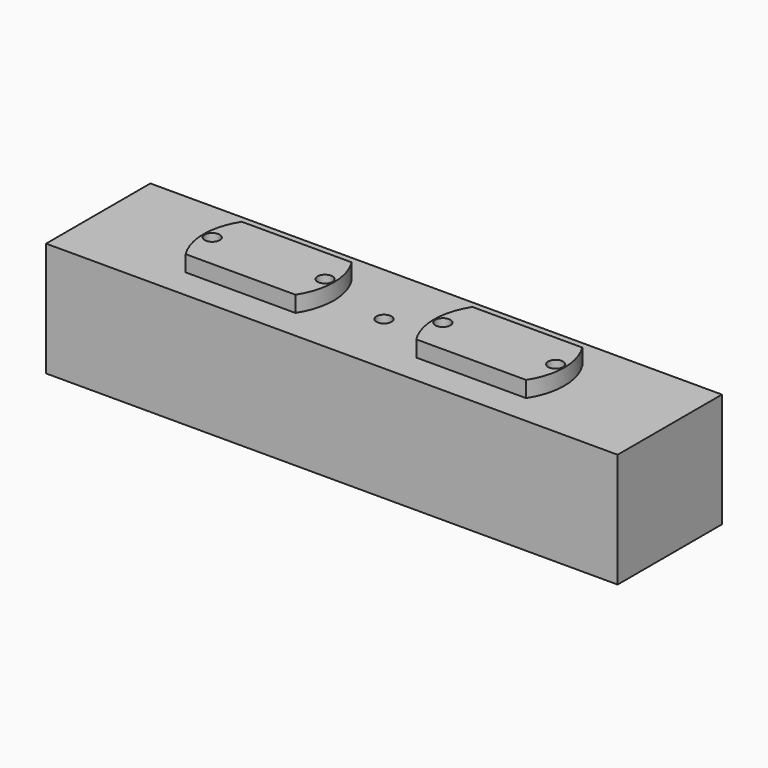
from build123d import *

# Parameters (mm, degrees)
F0_W     = 57
F0_H     = 13
F1_DEPTH = 13
F2_W     = 57
F2_H     = 13
F2_R     = 0.75
F3_DEPTH = 1.6
F4_ANGLE = -180
F5_ANGLE = -180
F6_R     = 0.75
F7_DEPTH = 5


with BuildPart() as f1:
    # F0 (on Top) → F1 (new body)
    with BuildSketch(Plane.XY):
        Rectangle(F0_W, F0_H)
    extrude(amount=F1_DEPTH)

    # F2 (on face) → F3 (cut)
    with BuildSketch(Plane.XY.offset(13)):
        Rectangle(F2_W, F2_H)
        with BuildLine():
            ThreePointArc((-6.027774, 3.5), (-5.005, 0), (-6.027774, -3.5))
            Line((-6.027774, -3.5), (-16.982226, -3.5))
            ThreePointArc((-16.982226, -3.5), (-18.005, 0), (-16.982226, 3.5))
            Line((-16.982226, 3.5), (-6.027774, 3.5))
        make_face(mode=Mode.SUBTRACT)
        with BuildLine():
            ThreePointArc((6.017774, -3.5), (4.995, 0), (6.017774, 3.5))
            Line((6.017774, 3.5), (16.972226, 3.5))
            ThreePointArc((16.972226, 3.5), (17.995, 0), (16.972226, -3.5))
            Line((16.972226, -3.5), (6.017774, -3.5))
        make_face(mode=Mode.SUBTRACT)
        with Locations((-17.13, 0)):
            Circle(F2_R)
        with Locations((-5.88, 0)):
            Circle(F2_R)
        with Locations((5.87, 0)):
            Circle(F2_R)
        with Locations((17.12, 0)):
            Circle(F2_R)
    extrude(amount=-F3_DEPTH, mode=Mode.SUBTRACT)


with BuildPart() as f1_1:
    # F4: moved
    add(f1.part.rotate(Axis((0, 6.5, 0), (1, 0, 0)), F4_ANGLE))


with BuildPart() as f1_2:
    # F5: moved
    add(f1_1.part.rotate(Axis((0, 6.5, 0), (1, 0, 0)), F5_ANGLE))

    # F6 (on face) → F7 (cut)
    with BuildSketch(Plane.XY.offset(11.4)):
        Circle(F6_R)
    extrude(amount=-F7_DEPTH, mode=Mode.SUBTRACT)


solid = f1_2.part
